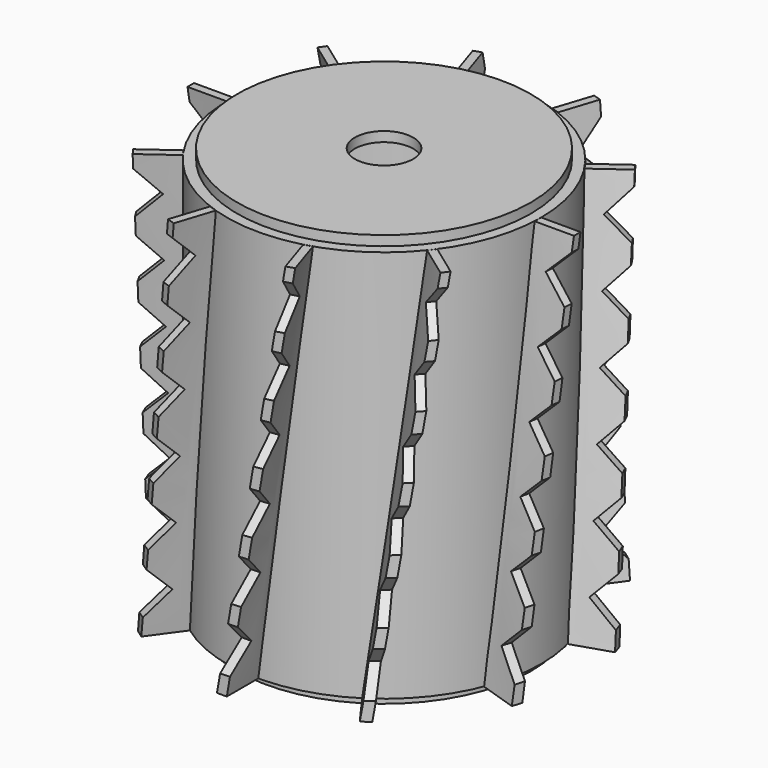
from build123d import *

# Parameters (mm, degrees)
F0_R      = 50.8
F0_R_2    = 47.461314
F1_DEPTH  = 63.5
F2_R      = 19.05
F3_DEPTH  = 25.4
F2_R_2    = 47.461314
F4_DEPTH  = 3.175
F5_R      = 47.461314
F5_R_2    = 9.42671
F6_DEPTH  = 3.175
F10_COUNT = 10
F10_ANGLE = 324


with BuildPart() as f1:
    # F0 (on Top) → F1 (new body, symmetric)
    with BuildSketch(Plane.XY):
        Circle(F0_R)
        Circle(F0_R_2, mode=Mode.SUBTRACT)
    extrude(amount=F1_DEPTH, both=True)



with BuildPart() as f3:
    # F2 (on face) → F3 (new body)
    with BuildSketch(Plane(origin=(0, 0, -63.5), x_dir=(1, 0, 0), z_dir=(0, 0, -1))):
        Circle(F2_R)
        with BuildLine():
            ThreePointArc((-8.980256, 3.175), (9.525, 0), (-8.980256, -3.175))
            Line((-8.980256, -3.175), (-12.155256, -3.175))
            Line((-12.155256, -3.175), (-12.155256, 3.175))
            Line((-12.155256, 3.175), (-8.980256, 3.175))
        make_face(mode=Mode.SUBTRACT)
    extrude(amount=-F3_DEPTH)


with BuildPart() as f1_1:
    add(f1.part)

    add(f3.part)  # F4 merges F3
    # F2 (on face) → F4 (join)
    with BuildSketch(Plane(origin=(0, 0, -63.5), x_dir=(1, 0, 0), z_dir=(0, 0, -1))):
        Circle(F2_R_2)
        Circle(F2_R, mode=Mode.SUBTRACT)
        Circle(F2_R)
        with BuildLine():
            ThreePointArc((-8.980256, 3.175), (9.525, 0), (-8.980256, -3.175))
            Line((-8.980256, -3.175), (-12.155256, -3.175))
            Line((-12.155256, -3.175), (-12.155256, 3.175))
            Line((-12.155256, 3.175), (-8.980256, 3.175))
        make_face(mode=Mode.SUBTRACT)
    extrude(amount=F4_DEPTH)


with BuildPart() as f6:
    # F5 (on face) → F6 (new body)
    with BuildSketch(Plane.XY.offset(63.5)):
        Circle(F5_R)
        Circle(F5_R_2, mode=Mode.SUBTRACT)
    extrude(amount=F6_DEPTH)


with BuildPart() as f9:
    # F8 (on face) → F9 section 0
    with BuildSketch(Plane(origin=(0, 0, -63.5), x_dir=(1, 0, 0), z_dir=(0, 0, -1))):
        Polygon((37.324364, -51.372579), (39.892992, -49.506361), (32.42812, -39.231845), (29.859491, -41.098063), align=None)
    # F7 (on face) → F9 section 1
    with BuildSketch(Plane.XY.offset(63.5)):
        Polygon((22.141841, 59.573531), (19.622579, 60.392089), (15.698063, 48.313671), (18.217326, 47.495113), align=None)
    loft()


with BuildPart() as f10_1:
    # F10: instance of F9
    add(f9.part.rotate(Axis((0, 0, 0), (0, 0, 1)), 1 * F10_ANGLE / (F10_COUNT - 1)))


with BuildPart() as f10_2:
    # F10: instance of F9
    add(f9.part.rotate(Axis((0, 0, 0), (0, 0, 1)), 2 * F10_ANGLE / (F10_COUNT - 1)))


with BuildPart() as f10_3:
    # F10: instance of F9
    add(f9.part.rotate(Axis((0, 0, 0), (0, 0, 1)), 3 * F10_ANGLE / (F10_COUNT - 1)))


with BuildPart() as f10_4:
    # F10: instance of F9
    add(f9.part.rotate(Axis((0, 0, 0), (0, 0, 1)), 4 * F10_ANGLE / (F10_COUNT - 1)))


with BuildPart() as f10_5:
    # F10: instance of F9
    add(f9.part.rotate(Axis((0, 0, 0), (0, 0, 1)), 5 * F10_ANGLE / (F10_COUNT - 1)))


with BuildPart() as f10_6:
    # F10: instance of F9
    add(f9.part.rotate(Axis((0, 0, 0), (0, 0, 1)), 6 * F10_ANGLE / (F10_COUNT - 1)))


with BuildPart() as f10_7:
    # F10: instance of F9
    add(f9.part.rotate(Axis((0, 0, 0), (0, 0, 1)), 7 * F10_ANGLE / (F10_COUNT - 1)))


with BuildPart() as f10_8:
    # F10: instance of F9
    add(f9.part.rotate(Axis((0, 0, 0), (0, 0, 1)), 8 * F10_ANGLE / (F10_COUNT - 1)))


with BuildPart() as f10_9:
    # F10: instance of F9
    add(f9.part.rotate(Axis((0, 0, 0), (0, 0, 1)), 9 * F10_ANGLE / (F10_COUNT - 1)))


with BuildPart() as f12_tool:
    # F11 (on Right) → F12 (revolve)
    with BuildSketch(Plane.YZ):
        Polygon((-64.77, 62.865), (-64.77, 66.675), (-68.58, 66.675), (-68.58, -66.675), (-64.77, -66.675), (-64.77, -59.055), (-55.88, -50.165), (-64.77, -41.275), (-64.77, -38.735), (-55.88, -29.845), (-64.77, -20.955), (-64.77, -18.415), (-55.88, -9.525), (-64.77, -0.635), (-64.77, 1.905), (-55.88, 10.795), (-64.77, 19.685), (-64.77, 22.225), (-55.88, 31.115), (-64.77, 40.005), (-64.77, 42.545), (-55.88, 51.435), (-64.77, 60.325), align=None)
    revolve(axis=Axis((0, 0, 0), (0, 0, 1)))


with BuildPart() as f9_1:
    add(f9.part)

    # F12: cut by f12_tool
    add(f12_tool.part, mode=Mode.SUBTRACT)


with BuildPart() as f10_1_1:
    add(f10_1.part)

    # F12: cut by f12_tool
    add(f12_tool.part, mode=Mode.SUBTRACT)


with BuildPart() as f10_2_1:
    add(f10_2.part)

    # F12: cut by f12_tool
    add(f12_tool.part, mode=Mode.SUBTRACT)


with BuildPart() as f10_3_1:
    add(f10_3.part)

    # F12: cut by f12_tool
    add(f12_tool.part, mode=Mode.SUBTRACT)


with BuildPart() as f10_4_1:
    add(f10_4.part)

    # F12: cut by f12_tool
    add(f12_tool.part, mode=Mode.SUBTRACT)


with BuildPart() as f10_5_1:
    add(f10_5.part)

    # F12: cut by f12_tool
    add(f12_tool.part, mode=Mode.SUBTRACT)


with BuildPart() as f10_6_1:
    add(f10_6.part)

    # F12: cut by f12_tool
    add(f12_tool.part, mode=Mode.SUBTRACT)


with BuildPart() as f10_7_1:
    add(f10_7.part)

    # F12: cut by f12_tool
    add(f12_tool.part, mode=Mode.SUBTRACT)


with BuildPart() as f10_8_1:
    add(f10_8.part)

    # F12: cut by f12_tool
    add(f12_tool.part, mode=Mode.SUBTRACT)


with BuildPart() as f10_9_1:
    add(f10_9.part)

    # F12: cut by f12_tool
    add(f12_tool.part, mode=Mode.SUBTRACT)


solid = Compound([f1_1.part, f6.part, f9_1.part, f10_1_1.part, f10_2_1.part, f10_3_1.part, f10_4_1.part, f10_5_1.part, f10_6_1.part, f10_7_1.part, f10_8_1.part, f10_9_1.part])
